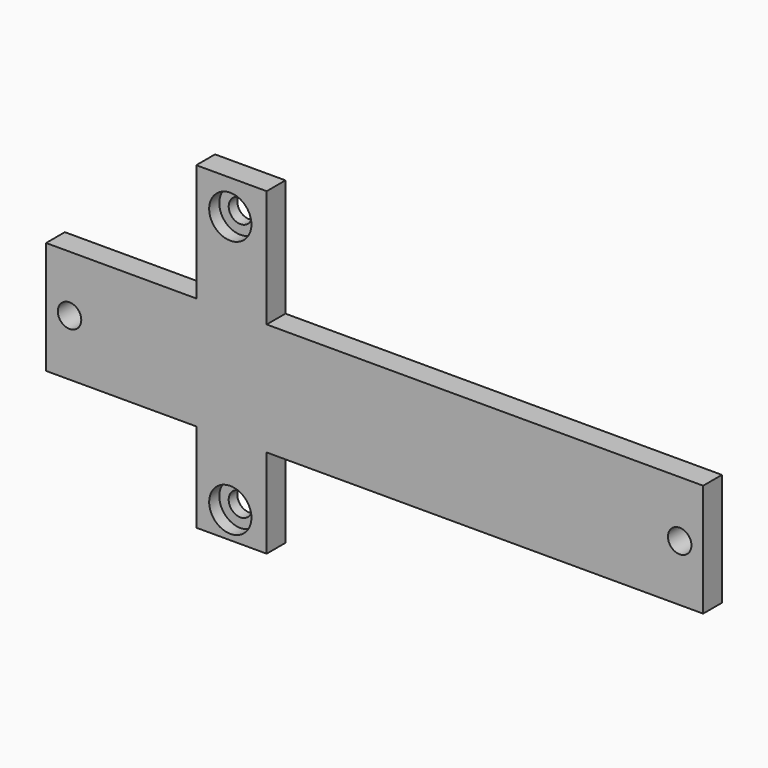
from build123d import *

# Parameters (mm, degrees)
CYLINDER046_R     = 4.5
CYLINDER046_DEPTH = 10
CYLINDER047_R     = 4.5
CYLINDER047_DEPTH = 10
CYLINDER041_R     = 2.5
CYLINDER041_DEPTH = 10
CYLINDER042_R     = 2.5
CYLINDER042_DEPTH = 10
CYLINDER043_R     = 2.5
CYLINDER043_DEPTH = 10
CYLINDER044_R     = 2.5
CYLINDER044_DEPTH = 10
CYLINDER040_R     = 2.5
CYLINDER040_DEPTH = 10
CYLINDER045_R     = 2.5
CYLINDER045_DEPTH = 10
BOX006_W          = 15
BOX006_H          = 5
BOX006_DEPTH      = 68
BOX005_W          = 140
BOX005_H          = 5
BOX005_DEPTH      = 24


with BuildPart() as cylinder046:
    # Cylinder046 → Cylinder046 (new body)
    with BuildSketch(Plane(origin=(-45.75, 0, -56.3), x_dir=(1, 0, 0), z_dir=(0, -1, 0))):
        Circle(CYLINDER046_R)
    extrude(amount=CYLINDER046_DEPTH)


with BuildPart() as obj1:
    # Cylinder047 → Cylinder047 (new body)
    with BuildSketch(Plane(origin=(-45.75, 0, -1.3), x_dir=(1, 0, 0), z_dir=(0, -1, 0))):
        Circle(CYLINDER047_R)
    extrude(amount=CYLINDER047_DEPTH)

    # Fusion016: union Cylinder046
    add(cylinder046.part)


with BuildPart() as obj1_1:
    # Fusion016 placement: moved
    add(obj1.part.moved(Location((0, 2.7, 0))))


with BuildPart() as cylinder041:
    # Cylinder041 → Cylinder041 (new body)
    with BuildSketch(Plane(origin=(115, 0, -31), x_dir=(1, 0, 0), z_dir=(0, -1, 0))):
        Circle(CYLINDER041_R)
    extrude(amount=CYLINDER041_DEPTH)


with BuildPart() as cylinder042:
    # Cylinder042 → Cylinder042 (new body)
    with BuildSketch(Plane(origin=(-80, 0, -31), x_dir=(1, 0, 0), z_dir=(0, -1, 0))):
        Circle(CYLINDER042_R)
    extrude(amount=CYLINDER042_DEPTH)


with BuildPart() as cylinder043:
    # Cylinder043 → Cylinder043 (new body)
    with BuildSketch(Plane(origin=(50, 0, -31), x_dir=(1, 0, 0), z_dir=(0, -1, 0))):
        Circle(CYLINDER043_R)
    extrude(amount=CYLINDER043_DEPTH)


with BuildPart() as cylinder044:
    # Cylinder044 → Cylinder044 (new body)
    with BuildSketch(Plane(origin=(-45.75, 0, -56.3), x_dir=(1, 0, 0), z_dir=(0, -1, 0))):
        Circle(CYLINDER044_R)
    extrude(amount=CYLINDER044_DEPTH)


with BuildPart() as cylinder040:
    # Cylinder040 → Cylinder040 (new body)
    with BuildSketch(Plane(origin=(-115, 0, -31), x_dir=(1, 0, 0), z_dir=(0, -1, 0))):
        Circle(CYLINDER040_R)
    extrude(amount=CYLINDER040_DEPTH)


with BuildPart() as fusion019:
    # Cylinder045 → Cylinder045 (new body)
    with BuildSketch(Plane(origin=(-45.75, 0, -1.3), x_dir=(1, 0, 0), z_dir=(0, -1, 0))):
        Circle(CYLINDER045_R)
    extrude(amount=CYLINDER045_DEPTH)

    # Fusion015: union Cylinder041, Cylinder042, Cylinder043, Cylinder044, Cylinder040
    add(cylinder041.part)
    add(cylinder042.part)
    add(cylinder043.part)
    add(cylinder044.part)
    add(cylinder040.part)


with BuildPart() as fusion019_1:
    # Fusion015 placement: moved
    add(fusion019.part.moved(Location((0, 5.1, 0))))

    # Fusion019: union obj1
    add(obj1_1.part)


with BuildPart() as cube005:
    # Box006 → Box006 (new body)
    with BuildSketch(Plane(origin=(-53, 0, -62), x_dir=(1, 0, 0), z_dir=(0, 0, 1))):
        with Locations((7.5, 2.5)):
            Rectangle(BOX006_W, BOX006_H)
    extrude(amount=BOX006_DEPTH)


with BuildPart() as powerbase:
    # Box005 → Box005 (new body)
    with BuildSketch(Plane(origin=(-85, 0, -43), x_dir=(1, 0, 0), z_dir=(0, 0, 1))):
        with Locations((70, 2.5)):
            Rectangle(BOX005_W, BOX005_H)
    extrude(amount=BOX005_DEPTH)

    # Fusion014: union Cube005
    add(cube005.part)

    # Cut002: cut Fusion019
    add(fusion019_1.part, mode=Mode.SUBTRACT)


solid = powerbase.part
